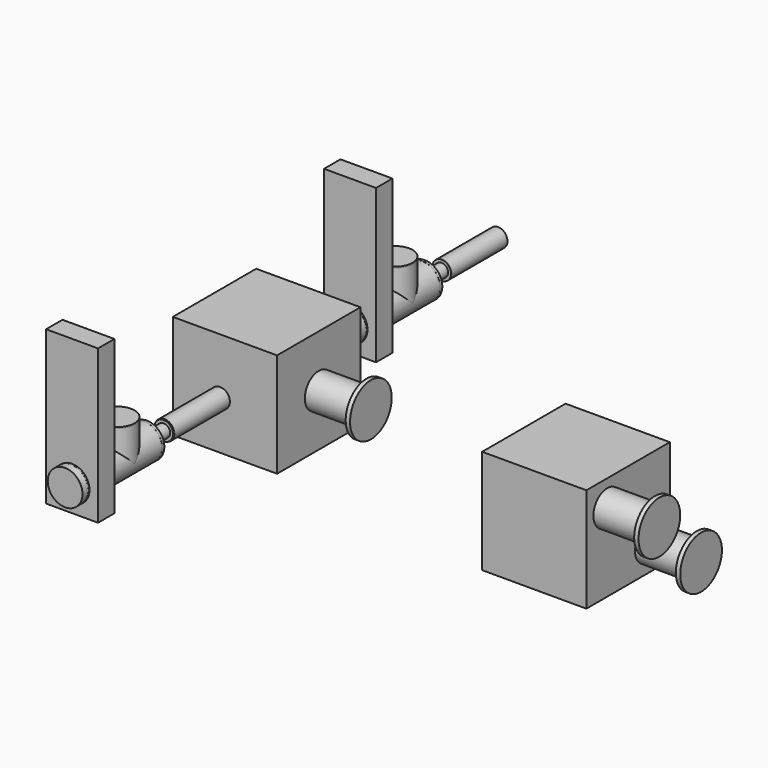
from build123d import *

# Parameters (mm, degrees)
F0_W      = 304.8
F0_H      = 304.8
F1_DEPTH  = 304.8
F3_R      = 50.8
F4_DEPTH  = 139.7
F6_R      = 76.2
F7_DEPTH  = 12.7
F9_R      = 50.8
F10_DEPTH = 0.0254
F12_R     = 76.2
F13_DEPTH = 12.7
F15_R     = 50.8
F16_DEPTH = 21.59
F18_R     = 51.0032
F19_DEPTH = 3.81
F21_W     = 151.892
F21_H     = 448.818
F22_DEPTH = 59.944
F24_R     = 51.0032
F25_DEPTH = 3.81
F27_R     = 50.8
F28_DEPTH = 202.184
F30_R     = 51.0032
F31_DEPTH = 3.81
F33_R     = 50.8
F34_DEPTH = 101.092
F36_R     = 51.0032
F37_DEPTH = 3.81
F39_R     = 51.0032
F40_DEPTH = 3.81
F42_R     = 19.05
F43_DEPTH = 61.4045
F45_R     = 27.432
F46_DEPTH = 3.048
F49_W     = 304.8
F49_H     = 304.8
F50_DEPTH = 304.8
F52_R     = 50.8
F53_DEPTH = 139.7
F55_R     = 76.2
F56_DEPTH = 12.7
F57_R     = 27.3800879836
F58_DEPTH = 203.2
F59_R     = 28.5733874153
F60_DEPTH = 203.2
F61_DEPTH = 203.2


with BuildPart() as f1:
    # F0 (on Top) → F1 (new body)
    with BuildSketch(Plane.XY):
        with Locations((8.6238738149, 37.7573585464)):
            Rectangle(F0_W, F0_H)
        with Locations((8.6238738149, 37.7573585464)):
            Rectangle(F0_W, F0_H)
    extrude(amount=F1_DEPTH)

    # F3 (on offset) → F4 (join)
    with BuildSketch(Plane.YZ.offset(161.0238738149)):
        with Locations((37.7573585464, 152.4)):
            Circle(F3_R)
    extrude(amount=F4_DEPTH)

    # F6 (on offset) → F7 (join)
    with BuildSketch(Plane.YZ.offset(300.7238738149)):
        with Locations((37.7573585464, 152.4)):
            Circle(F6_R)
    extrude(amount=F7_DEPTH)

    # F9 (on offset) → F10 (join)
    with BuildSketch(Plane(origin=(-143.7761261851, 0, 0), x_dir=(0, -1, 0), z_dir=(-1, 0, 0))):
        with Locations((-37.7573585464, 152.4)):
            Circle(F9_R)
    extrude(amount=F10_DEPTH)

    # F12 (on offset) → F13 (join)
    with BuildSketch(Plane(origin=(-143.8015261851, 0, 0), x_dir=(0, -1, 0), z_dir=(-1, 0, 0))):
        with Locations((-37.7573585464, 152.4)):
            Circle(F12_R)
    extrude(amount=F13_DEPTH)


with BuildPart() as f16:
    # F15 (on offset) → F16 (new body)
    with BuildSketch(Plane(origin=(0, 317.1573585464, 0), x_dir=(-1, 0, 0), z_dir=(0, 1, 0))):
        with Locations((-8.6238738149, 152.4)):
            Circle(F15_R)
    extrude(amount=F16_DEPTH)

    # F18 (on offset) → F19 (join)
    with BuildSketch(Plane(origin=(0, 338.7473585464, 0), x_dir=(-1, 0, 0), z_dir=(0, 1, 0))):
        with Locations((-8.6238738149, 152.4)):
            Circle(F18_R)
    extrude(amount=F19_DEPTH)

    # F21 (on offset) → F22 (join)
    with BuildSketch(Plane(origin=(0, 342.5573585464, 0), x_dir=(-1, 0, 0), z_dir=(0, 1, 0))):
        with Locations((-8.6238738149, 300.609)):
            Rectangle(F21_W, F21_H)
    extrude(amount=F22_DEPTH)

    # F24 (on offset) → F25 (join)
    with BuildSketch(Plane(origin=(0, 402.5013585464, 0), x_dir=(-1, 0, 0), z_dir=(0, 1, 0))):
        with Locations((-8.6238738149, 152.4)):
            Circle(F24_R)
    extrude(amount=F25_DEPTH)

    # F27 (on offset) → F28 (join)
    with BuildSketch(Plane(origin=(0, 406.3113585464, 0), x_dir=(-1, 0, 0), z_dir=(0, 1, 0))):
        with Locations((-8.6238738149, 152.4)):
            Circle(F27_R)
    extrude(amount=F28_DEPTH)

    # F30 (on offset) → F31 (join)
    with BuildSketch(Plane(origin=(0, 608.4953585464, 0), x_dir=(-1, 0, 0), z_dir=(0, 1, 0))):
        with Locations((-8.6238738149, 152.4)):
            Circle(F30_R)
    extrude(amount=F31_DEPTH)

    # F33 (on offset) → F34 (join)
    with BuildSketch(Plane.XY.offset(152.4)):
        with Locations((8.6238738149, 507.4033585464)):
            Circle(F33_R)
    extrude(amount=F34_DEPTH)

    # F36 (on offset) → F37 (join)
    with BuildSketch(Plane.XY.offset(253.492)):
        with Locations((8.6238738149, 507.4033585464)):
            Circle(F36_R)
    extrude(amount=F37_DEPTH)

    # F39 (on offset) → F40 (join)
    with BuildSketch(Plane(origin=(0, 612.3053585464, 0), x_dir=(-1, 0, 0), z_dir=(0, 1, 0))):
        with Locations((-8.6238738149, 152.4)):
            Circle(F39_R)
    extrude(amount=F40_DEPTH)

    # F42 (on offset) → F43 (join)
    with BuildSketch(Plane(origin=(0, 616.1153585464, 0), x_dir=(-1, 0, 0), z_dir=(0, 1, 0))):
        with Locations((-8.6238738149, 152.4)):
            Circle(F42_R)
    extrude(amount=F43_DEPTH)

    # F45 (on offset) → F46 (join)
    with BuildSketch(Plane(origin=(0, 677.5198585464, 0), x_dir=(-1, 0, 0), z_dir=(0, 1, 0))):
        with Locations((-8.6238738149, 152.4)):
            Circle(F45_R)
    extrude(amount=F46_DEPTH)


with BuildPart() as f47_1:
    # F47: copy of F16
    add(f16.part.moved(Location((0, -1016, 0))))

    # F59 (on face) → F60 (join)
    with BuildSketch(Plane(origin=(0, -335.4321414536, 0), x_dir=(-1, 0, 0), z_dir=(0, 1, 0))):
        with Locations((-8.6238738149, 152.4)):
            Circle(F59_R)
    extrude(amount=F60_DEPTH)

    # F59 (on face) → F61 (join)
    with BuildSketch(Plane(origin=(0, -335.4321414536, 0), x_dir=(-1, 0, 0), z_dir=(0, 1, 0))):
        with Locations((-8.6238738149, 152.4)):
            Circle(F59_R)
    extrude(amount=F61_DEPTH)


with BuildPart() as f50:
    # F49 (on offset) → F50 (new body)
    with BuildSketch(Plane.YZ.offset(669.0238738149)):
        with Locations((152.4, 22.8603045642)):
            Rectangle(F49_W, F49_H)
    extrude(amount=F50_DEPTH)

    # F52 (on offset) → F53 (join)
    with BuildSketch(Plane.YZ.offset(973.8238738149)):
        with Locations((76.2, 99.0603045642)):
            Circle(F52_R)
        with Locations((228.6, -53.3396954358)):
            Circle(F52_R)
    extrude(amount=F53_DEPTH)

    # F55 (on offset) → F56 (join)
    with BuildSketch(Plane.YZ.offset(1113.5238738149)):
        with Locations((76.2, 99.0603045642)):
            Circle(F55_R)
        with Locations((228.6, -53.3396954358)):
            Circle(F55_R)
    extrude(amount=F56_DEPTH)


with BuildPart() as f16_1:
    add(f16.part)

    # F57 (on face) → F58 (join)
    with BuildSketch(Plane(origin=(0, 680.5678585464, 0), x_dir=(-1, 0, 0), z_dir=(0, 1, 0))):
        with Locations((-8.6238738149, 152.4)):
            Circle(F57_R)
    extrude(amount=F58_DEPTH)


solid = Compound([f1.part, f47_1.part, f50.part, f16_1.part])
